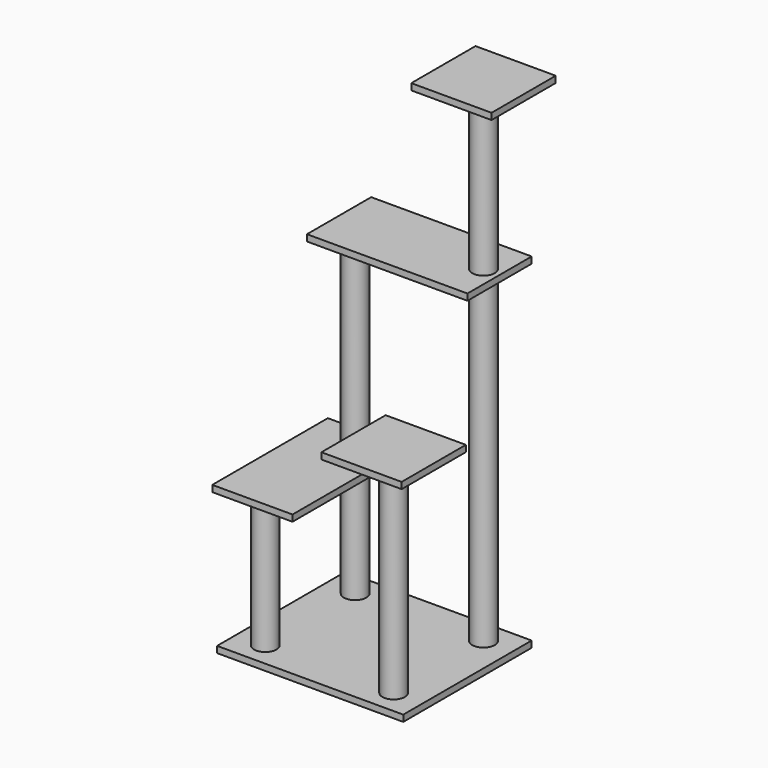
from build123d import *

# Parameters (mm, degrees)
F0_W      = 580
F0_H      = 500
F1_DEPTH  = 20
F2_R      = 35
F3_DEPTH  = 400
F4_W      = 250
F4_H      = 450
F5_DEPTH  = 20
F6_DEPTH  = 1000
F7_R      = 35
F8_DEPTH  = 580
F9_DEPTH  = 650
F10_W     = 250
F10_H     = 250
F10_R     = 35
F11_DEPTH = 20
F12_W     = 500
F12_H     = 250
F13_DEPTH = 20
F14_R     = 35
F15_DEPTH = 500
F16_W     = 250
F16_H     = 250
F17_DEPTH = 20


with BuildPart() as f1:
    # F0 (on Top) → F1 (new body)
    with BuildSketch(Plane.XY):
        Rectangle(F0_W, F0_H)
    extrude(amount=F1_DEPTH)

    # F2 (on face) → F3 (join)
    with BuildSketch(Plane.XY.offset(20)):
        with Locations((-200, 175)):
            Circle(F2_R)
        with Locations((-200, -175)):
            Circle(F2_R)
    extrude(amount=F3_DEPTH)

    # F4 (on face) → F5 (join)
    with BuildSketch(Plane.XY.offset(420)):
        with Locations((-200, 0)):
            Rectangle(F4_W, F4_H)
    extrude(amount=F5_DEPTH)

    # F2 (on face) → F6 (join)
    with BuildSketch(Plane.XY.offset(20)):
        with Locations((200, 175)):
            Circle(F2_R)
    extrude(amount=F6_DEPTH)

    # F7 (on face) → F8 (join, through all)
    with BuildSketch(Plane.XY.offset(440)):
        with Locations((-200, 175)):
            Circle(F7_R)
    extrude(amount=F8_DEPTH)

    # F2 (on face) → F9 (join)
    with BuildSketch(Plane.XY.offset(20)):
        with Locations((200, -175)):
            Circle(F2_R)
    extrude(amount=F9_DEPTH)

    # F10 (on face) → F11 (join)
    with BuildSketch(Plane.XY.offset(670)):
        with Locations((200, -175)):
            Rectangle(F10_W, F10_H)
        with Locations((200, -175)):
            Circle(F10_R, mode=Mode.SUBTRACT)
        with Locations((200, -175)):
            Circle(F10_R)
    extrude(amount=F11_DEPTH)

    # F12 (on face) → F13 (join)
    with BuildSketch(Plane.XY.offset(1020)):
        with Locations((0, 175)):
            Rectangle(F12_W, F12_H)
    extrude(amount=F13_DEPTH)

    # F14 (on face) → F15 (join)
    with BuildSketch(Plane.XY.offset(1040)):
        with Locations((200, 175)):
            Circle(F14_R)
    extrude(amount=F15_DEPTH)

    # F16 (on face) → F17 (join)
    with BuildSketch(Plane.XY.offset(1540)):
        with Locations((200, 175)):
            Rectangle(F16_W, F16_H)
    extrude(amount=F17_DEPTH)


solid = f1.part
